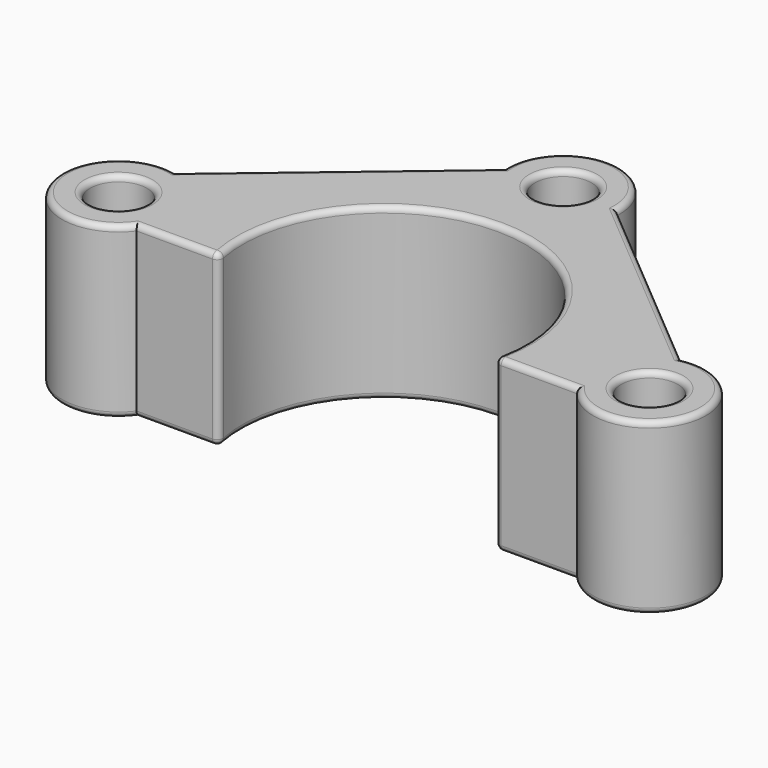
from build123d import *

# Parameters (mm, degrees)
F0_R     = 6.35
F1_DEPTH = 38.1
F2_R     = 1.27
F3_R     = 1.27


with BuildPart() as f1:
    # F0 (on Top) → F1 (new body)
    with BuildSketch(Plane.XY):
        with BuildLine():
            Line((56.7533961615, 12.3756786378), (12.6791463757, 49.5603862342))
            ThreePointArc((12.6791463757, 49.5603862342), (0, 62.9878800035), (-12.6791463757, 49.5603862342))
            Line((-12.6791463757, 49.5603862342), (-56.7533961615, 12.3756786378))
            ThreePointArc((-56.7533961615, 12.3756786378), (-71.5334207195, -4.3596657155), (-49.4451637282, -7.62))
            Line((-49.4451637282, -7.62), (-32.4036710883, -7.62))
            ThreePointArc((-32.4036710883, -7.62), (-31.4230913932, -7.1570709148), (-31.1573760465, -6.1057692308))
            ThreePointArc((-31.1573760465, -6.1057692308), (0, 31.75), (31.1573760465, -6.1057692308))
            ThreePointArc((31.1573760465, -6.1057692308), (31.4230913932, -7.1570709148), (32.4036710883, -7.62))
            Line((32.4036710883, -7.62), (49.4451637282, -7.62))
            ThreePointArc((49.4451637282, -7.62), (71.5334207195, -4.3596657155), (56.7533961615, 12.3756786378))
        make_face()
        with Locations((-59.6051637282, 0)):
            Circle(F0_R, mode=Mode.SUBTRACT)
        with Locations((59.6051637282, 0)):
            Circle(F0_R, mode=Mode.SUBTRACT)
        with Locations((0, 50.2878800035)):
            Circle(F0_R, mode=Mode.SUBTRACT)
    extrude(amount=F1_DEPTH)

    # F2
    f2_edges = [f1.edges().sort_by_distance(p)[0] for p in [
        (34.716271, 30.968032, 38.1),
        (0, 62.98788, 38.1),
        (-34.716271, 30.968032, 38.1),
        (-71.533421, -4.359666, 38.1),
        (-40.924417, -7.62, 38.1),
        (-31.423091, -7.157071, 38.1),
        (0, 31.75, 38.1),
        (31.423091, -7.157071, 38.1),
        (40.924417, -7.62, 38.1),
        (71.533421, -4.359666, 38.1),
        (-65.955164, 0, 38.1),
        (53.255164, 0, 38.1),
        (-6.35, 50.28788, 38.1),
    ]]
    fillet(f2_edges, radius=F2_R)

    # F3
    f3_edges = [f1.edges().sort_by_distance(p)[0] for p in [
        (34.716271, 30.968032, 0),
        (0, 62.98788, 0),
        (-34.716271, 30.968032, 0),
        (-71.533421, -4.359666, 0),
        (-40.924417, -7.62, 0),
        (-31.423091, -7.157071, 0),
        (0, 31.75, 0),
        (31.423091, -7.157071, 0),
        (40.924417, -7.62, 0),
        (71.533421, -4.359666, 0),
        (-65.955164, 0, 0),
        (53.255164, 0, 0),
        (-6.35, 50.28788, 0),
    ]]
    fillet(f3_edges, radius=F3_R)


solid = f1.part
